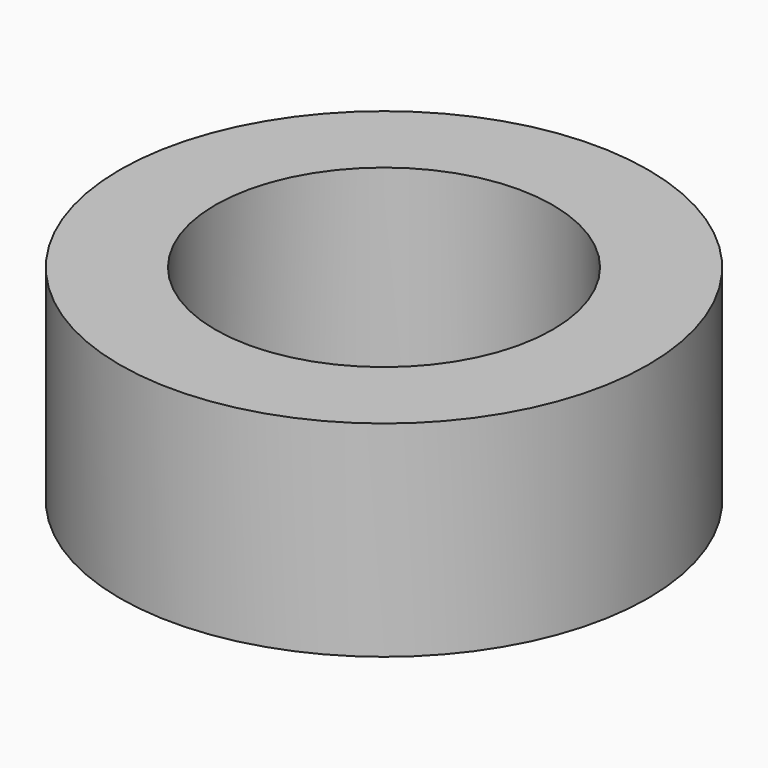
from build123d import *

# Parameters (mm, degrees)
CYLINDER001_R     = 12.5
CYLINDER001_DEPTH = 24
CYLINDER002_R     = 13.5
CYLINDER002_DEPTH = 13
CYLINDER_R        = 17
CYLINDER_DEPTH    = 8
CYLINDER003_R     = 11.5
CYLINDER003_DEPTH = 25
CYLINDER004_R     = 18
CYLINDER004_DEPTH = 14


with BuildPart() as innerhole:
    # Cylinder001 → Cylinder001 (new body)
    with BuildSketch(Plane.XY.offset(-5)):
        Circle(CYLINDER001_R)
    extrude(amount=CYLINDER001_DEPTH)


with BuildPart() as sleeve:
    # Cylinder002 → Cylinder002 (new body)
    with BuildSketch(Plane.XY):
        Circle(CYLINDER002_R)
    extrude(amount=CYLINDER002_DEPTH)


with BuildPart() as cut:
    # Cylinder → Cylinder (new body)
    with BuildSketch(Plane.XY):
        Circle(CYLINDER_R)
    extrude(amount=CYLINDER_DEPTH)

    # Fusion: union Sleeve
    add(sleeve.part)

    # Cut: cut InnerHole
    add(innerhole.part, mode=Mode.SUBTRACT)


with BuildPart() as materialsaving:
    # Cylinder003 → Cylinder003 (new body)
    with BuildSketch(Plane.XY):
        Circle(CYLINDER003_R)
    extrude(amount=CYLINDER003_DEPTH)


with BuildPart() as cut002:
    # Cylinder004 → Cylinder004 (new body)
    with BuildSketch(Plane.XY):
        Circle(CYLINDER004_R)
    extrude(amount=CYLINDER004_DEPTH)

    # Cut001: cut MaterialSaving
    add(materialsaving.part, mode=Mode.SUBTRACT)

    # Cut002: cut Cut
    add(cut.part, mode=Mode.SUBTRACT)


solid = cut002.part
